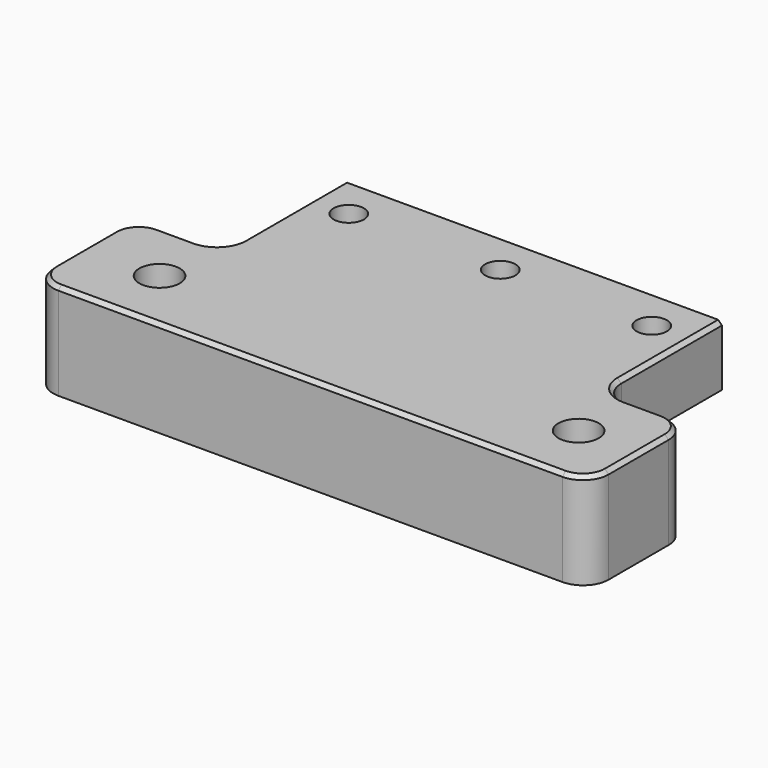
from build123d import *

# Parameters (mm, degrees)
F1_DEPTH = 19.1
F2_R     = 3
F3_DEPTH = 19.101
F4_R     = 5.5
F4_R_2   = 3
F5_DEPTH = 13.1
F7_DEPTH = 92.501
F8_R     = 4
F9_DEPTH = 19.101
F10_R    = 5.08
F11_R    = 5.08
F12_SIZE = 0.762


with BuildPart() as f1:
    # F0 (on Top) → F1 (new body)
    with BuildSketch(Plane.XY):
        Polygon((-55, -2.5), (-55, -27.5), (55, -27.5), (55, -2.5), (37.5, -2.5), (37.5, 27.5), (-37.5, 27.5), (-37.5, -2.5), align=None)
    extrude(amount=F1_DEPTH)

    # F2 (on face) → F3 (cut, through all)
    with BuildSketch(Plane.XY.offset(19.1)):
        with Locations((-30, 19.5)):
            Circle(F2_R)
        with Locations((0, 19.5)):
            Circle(F2_R)
        with Locations((30, 19.5)):
            Circle(F2_R)
    extrude(amount=-F3_DEPTH, mode=Mode.SUBTRACT)

    # F4 (on face) → F5 (cut)
    with BuildSketch(Plane(origin=(0, 0, 0), x_dir=(1, 0, 0), z_dir=(0, 0, -1))):
        with Locations((-30, -19.5)):
            Circle(F4_R)
        with Locations((-30, -19.5)):
            Circle(F4_R_2, mode=Mode.SUBTRACT)
        with Locations((0, -19.5)):
            Circle(F4_R)
        with Locations((0, -19.5)):
            Circle(F4_R_2, mode=Mode.SUBTRACT)
        with Locations((30, -19.5)):
            Circle(F4_R)
        with Locations((30, -19.5)):
            Circle(F4_R_2, mode=Mode.SUBTRACT)
    extrude(amount=-F5_DEPTH, mode=Mode.SUBTRACT)

    # F6 (on face) → F7 (cut, through all)
    with BuildSketch(Plane.YZ.offset(37.5)):
        Polygon((27.5, 7.1), (14.2632350326, 7.1), (-2.5, 7.1), (-2.5, 0), (27.5, 0), align=None)
    extrude(amount=-F7_DEPTH, mode=Mode.SUBTRACT)

    # F8 (on face) → F9 (cut, through all)
    with BuildSketch(Plane.XY.offset(19.1)):
        with Locations((-39.879388541, -15)):
            Circle(F8_R)
        with Locations((43.120611459, -15)):
            Circle(F8_R)
    extrude(amount=-F9_DEPTH, mode=Mode.SUBTRACT)

    # F10
    f10_edges = [f1.edges().sort_by_distance(p)[0] for p in [
        (55, -2.5, 9.55),
        (37.5, -2.5, 13.1),
        (-37.5, -2.5, 13.1),
        (-55, -2.5, 9.55),
        (55, -27.5, 9.55),
        (-55, -27.5, 9.55),
    ]]
    fillet(f10_edges, radius=F10_R)

    # F11
    f11_edges = [f1.edges().sort_by_distance(p)[0] for p in [
        (0, -2.5, 7.1),
    ]]
    fillet(f11_edges, radius=F11_R)

    # F12
    f12_edges = [f1.edges().sort_by_distance(p)[0] for p in [
        (0, -27.5, 19.1),
    ]]
    chamfer(f12_edges, length=F12_SIZE)


solid = f1.part
